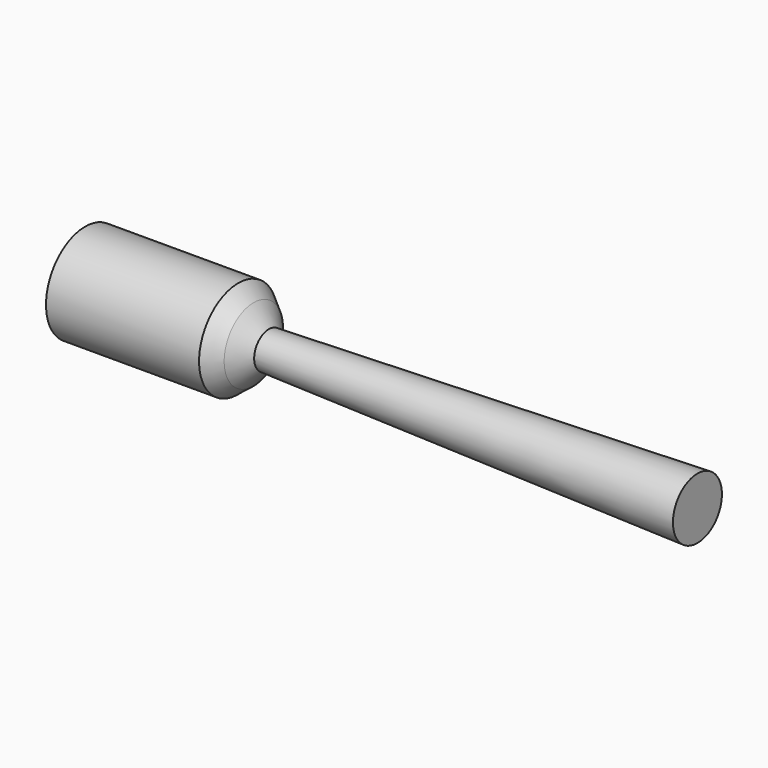
from build123d import *


with BuildPart() as part:
    # Sketch → Revolution (revolve)
    with BuildSketch(Plane.XY):
        Polygon((0, 0), (100, 0), (100, 5), (30, 3), (27.5, 6), (25, 8), (0, 8), (0, 6), (14, 6), (15, 3), (0, 5), align=None)
    revolve(axis=Axis((0, 0, 0), (1, 0, 0)))


solid = part.part
